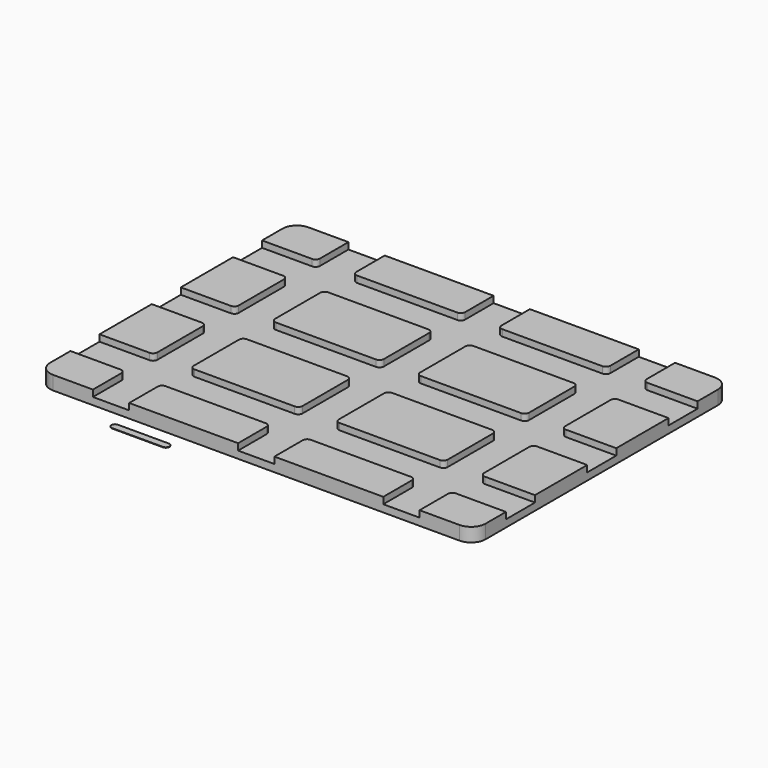
from build123d import *

# Parameters (mm, degrees)
F1_DEPTH = 5
F2_DEPTH = 9.5
F0_W     = 35
F0_H     = 5
F3_DEPTH = 0.3


with BuildPart() as f1:
    # F0 (on Top) → F1 (new body)
    with BuildSketch(Plane.XY):
        with BuildLine():
            Line((-150, 100), (-150, 82.5))
            Line((-150, 82.5), (-115.5, 82.5))
            ThreePointArc((-115.5, 82.5), (-113.37868, 83.37868), (-112.5, 85.5))
            Line((-112.5, 85.5), (-112.5, 110))
            Line((-112.5, 110), (-140, 110))
            ThreePointArc((-140, 110), (-147.071068, 107.071068), (-150, 100))
        make_face()
        with BuildLine():
            Line((87.5, -110), (112.5, -110))
            Line((112.5, -110), (112.5, -85.5))
            ThreePointArc((112.5, -85.5), (113.37868, -83.37868), (115.5, -82.5))
            Line((115.5, -82.5), (150, -82.5))
            Line((150, -82.5), (150, -57.5))
            Line((150, -57.5), (115.5, -57.5))
            ThreePointArc((115.5, -57.5), (113.37868, -56.62132), (112.5, -54.5))
            Line((112.5, -54.5), (112.5, -15.5))
            ThreePointArc((112.5, -15.5), (113.37868, -13.37868), (115.5, -12.5))
            Line((115.5, -12.5), (150, -12.5))
            Line((150, -12.5), (150, 12.5))
            Line((150, 12.5), (115.5, 12.5))
            ThreePointArc((115.5, 12.5), (113.37868, 13.37868), (112.5, 15.5))
            Line((112.5, 15.5), (112.5, 54.5))
            ThreePointArc((112.5, 54.5), (113.37868, 56.62132), (115.5, 57.5))
            Line((115.5, 57.5), (150, 57.5))
            Line((150, 57.5), (150, 82.5))
            Line((150, 82.5), (115.5, 82.5))
            ThreePointArc((115.5, 82.5), (113.37868, 83.37868), (112.5, 85.5))
            Line((112.5, 85.5), (112.5, 110))
            Line((112.5, 110), (87.5, 110))
            Line((87.5, 110), (87.5, 85.5))
            ThreePointArc((87.5, 85.5), (86.62132, 83.37868), (84.5, 82.5))
            Line((84.5, 82.5), (15.5, 82.5))
            ThreePointArc((15.5, 82.5), (13.37868, 83.37868), (12.5, 85.5))
            Line((12.5, 85.5), (12.5, 110))
            Line((12.5, 110), (-12.5, 110))
            Line((-12.5, 110), (-12.5, 85.5))
            ThreePointArc((-12.5, 85.5), (-13.37868, 83.37868), (-15.5, 82.5))
            Line((-15.5, 82.5), (-84.5, 82.5))
            ThreePointArc((-84.5, 82.5), (-86.62132, 83.37868), (-87.5, 85.5))
            Line((-87.5, 85.5), (-87.5, 110))
            Line((-87.5, 110), (-112.5, 110))
            Line((-112.5, 110), (-112.5, 85.5))
            ThreePointArc((-112.5, 85.5), (-113.37868, 83.37868), (-115.5, 82.5))
            Line((-115.5, 82.5), (-150, 82.5))
            Line((-150, 82.5), (-150, 57.5))
            Line((-150, 57.5), (-115.5, 57.5))
            ThreePointArc((-115.5, 57.5), (-113.37868, 56.62132), (-112.5, 54.5))
            Line((-112.5, 54.5), (-112.5, 15.5))
            ThreePointArc((-112.5, 15.5), (-113.37868, 13.37868), (-115.5, 12.5))
            Line((-115.5, 12.5), (-150, 12.5))
            Line((-150, 12.5), (-150, -12.5))
            Line((-150, -12.5), (-115.5, -12.5))
            ThreePointArc((-115.5, -12.5), (-113.37868, -13.37868), (-112.5, -15.5))
            Line((-112.5, -15.5), (-112.5, -54.5))
            ThreePointArc((-112.5, -54.5), (-113.37868, -56.62132), (-115.5, -57.5))
            Line((-115.5, -57.5), (-150, -57.5))
            Line((-150, -57.5), (-150, -82.5))
            Line((-150, -82.5), (-115.5, -82.5))
            ThreePointArc((-115.5, -82.5), (-113.37868, -83.37868), (-112.5, -85.5))
            Line((-112.5, -85.5), (-112.5, -110))
            Line((-112.5, -110), (-87.5, -110))
            Line((-87.5, -110), (-87.5, -85.5))
            ThreePointArc((-87.5, -85.5), (-86.62132, -83.37868), (-84.5, -82.5))
            Line((-84.5, -82.5), (-15.5, -82.5))
            ThreePointArc((-15.5, -82.5), (-13.37868, -83.37868), (-12.5, -85.5))
            Line((-12.5, -85.5), (-12.5, -110))
            Line((-12.5, -110), (12.5, -110))
            Line((12.5, -110), (12.5, -85.5))
            ThreePointArc((12.5, -85.5), (13.37868, -83.37868), (15.5, -82.5))
            Line((15.5, -82.5), (84.5, -82.5))
            ThreePointArc((84.5, -82.5), (86.62132, -83.37868), (87.5, -85.5))
            Line((87.5, -85.5), (87.5, -110))
        make_face()
        with BuildLine():
            ThreePointArc((-87.5, -15.5), (-86.62132, -13.37868), (-84.5, -12.5))
            Line((-84.5, -12.5), (-15.5, -12.5))
            ThreePointArc((-15.5, -12.5), (-13.37868, -13.37868), (-12.5, -15.5))
            Line((-12.5, -15.5), (-12.5, -54.5))
            ThreePointArc((-12.5, -54.5), (-13.37868, -56.62132), (-15.5, -57.5))
            Line((-15.5, -57.5), (-84.5, -57.5))
            ThreePointArc((-84.5, -57.5), (-86.62132, -56.62132), (-87.5, -54.5))
            Line((-87.5, -54.5), (-87.5, -15.5))
        make_face(mode=Mode.SUBTRACT)
        with BuildLine():
            Line((12.5, -54.5), (12.5, -15.5))
            ThreePointArc((12.5, -15.5), (13.37868, -13.37868), (15.5, -12.5))
            Line((15.5, -12.5), (84.5, -12.5))
            ThreePointArc((84.5, -12.5), (86.62132, -13.37868), (87.5, -15.5))
            Line((87.5, -15.5), (87.5, -54.5))
            ThreePointArc((87.5, -54.5), (86.62132, -56.62132), (84.5, -57.5))
            Line((84.5, -57.5), (15.5, -57.5))
            ThreePointArc((15.5, -57.5), (13.37868, -56.62132), (12.5, -54.5))
        make_face(mode=Mode.SUBTRACT)
        with BuildLine():
            ThreePointArc((-87.5, 54.5), (-86.62132, 56.62132), (-84.5, 57.5))
            Line((-84.5, 57.5), (-15.5, 57.5))
            ThreePointArc((-15.5, 57.5), (-13.37868, 56.62132), (-12.5, 54.5))
            Line((-12.5, 54.5), (-12.5, 15.5))
            ThreePointArc((-12.5, 15.5), (-13.37868, 13.37868), (-15.5, 12.5))
            Line((-15.5, 12.5), (-84.5, 12.5))
            ThreePointArc((-84.5, 12.5), (-86.62132, 13.37868), (-87.5, 15.5))
            Line((-87.5, 15.5), (-87.5, 54.5))
        make_face(mode=Mode.SUBTRACT)
        with BuildLine():
            Line((12.5, 15.5), (12.5, 54.5))
            ThreePointArc((12.5, 54.5), (13.37868, 56.62132), (15.5, 57.5))
            Line((15.5, 57.5), (84.5, 57.5))
            ThreePointArc((84.5, 57.5), (86.62132, 56.62132), (87.5, 54.5))
            Line((87.5, 54.5), (87.5, 15.5))
            ThreePointArc((87.5, 15.5), (86.62132, 13.37868), (84.5, 12.5))
            Line((84.5, 12.5), (15.5, 12.5))
            ThreePointArc((15.5, 12.5), (13.37868, 13.37868), (12.5, 15.5))
        make_face(mode=Mode.SUBTRACT)
        with BuildLine():
            Line((-12.5, 85.5), (-12.5, 110))
            Line((-12.5, 110), (-87.5, 110))
            Line((-87.5, 110), (-87.5, 85.5))
            ThreePointArc((-87.5, 85.5), (-86.62132, 83.37868), (-84.5, 82.5))
            Line((-84.5, 82.5), (-15.5, 82.5))
            ThreePointArc((-15.5, 82.5), (-13.37868, 83.37868), (-12.5, 85.5))
        make_face()
        with BuildLine():
            Line((87.5, 85.5), (87.5, 110))
            Line((87.5, 110), (12.5, 110))
            Line((12.5, 110), (12.5, 85.5))
            ThreePointArc((12.5, 85.5), (13.37868, 83.37868), (15.5, 82.5))
            Line((15.5, 82.5), (84.5, 82.5))
            ThreePointArc((84.5, 82.5), (86.62132, 83.37868), (87.5, 85.5))
        make_face()
        with BuildLine():
            Line((115.5, 82.5), (150, 82.5))
            Line((150, 82.5), (150, 100))
            ThreePointArc((150, 100), (147.071068, 107.071068), (140, 110))
            Line((140, 110), (112.5, 110))
            Line((112.5, 110), (112.5, 85.5))
            ThreePointArc((112.5, 85.5), (113.37868, 83.37868), (115.5, 82.5))
        make_face()
        with BuildLine():
            Line((115.5, 12.5), (150, 12.5))
            Line((150, 12.5), (150, 57.5))
            Line((150, 57.5), (115.5, 57.5))
            ThreePointArc((115.5, 57.5), (113.37868, 56.62132), (112.5, 54.5))
            Line((112.5, 54.5), (112.5, 15.5))
            ThreePointArc((112.5, 15.5), (113.37868, 13.37868), (115.5, 12.5))
        make_face()
        with BuildLine():
            ThreePointArc((15.5, 57.5), (13.37868, 56.62132), (12.5, 54.5))
            Line((12.5, 54.5), (12.5, 15.5))
            ThreePointArc((12.5, 15.5), (13.37868, 13.37868), (15.5, 12.5))
            Line((15.5, 12.5), (84.5, 12.5))
            ThreePointArc((84.5, 12.5), (86.62132, 13.37868), (87.5, 15.5))
            Line((87.5, 15.5), (87.5, 54.5))
            ThreePointArc((87.5, 54.5), (86.62132, 56.62132), (84.5, 57.5))
            Line((84.5, 57.5), (15.5, 57.5))
        make_face()
        with BuildLine():
            Line((-15.5, 57.5), (-84.5, 57.5))
            ThreePointArc((-84.5, 57.5), (-86.62132, 56.62132), (-87.5, 54.5))
            Line((-87.5, 54.5), (-87.5, 15.5))
            ThreePointArc((-87.5, 15.5), (-86.62132, 13.37868), (-84.5, 12.5))
            Line((-84.5, 12.5), (-15.5, 12.5))
            ThreePointArc((-15.5, 12.5), (-13.37868, 13.37868), (-12.5, 15.5))
            Line((-12.5, 15.5), (-12.5, 54.5))
            ThreePointArc((-12.5, 54.5), (-13.37868, 56.62132), (-15.5, 57.5))
        make_face()
        with BuildLine():
            Line((-150, 57.5), (-150, 12.5))
            Line((-150, 12.5), (-115.5, 12.5))
            ThreePointArc((-115.5, 12.5), (-113.37868, 13.37868), (-112.5, 15.5))
            Line((-112.5, 15.5), (-112.5, 54.5))
            ThreePointArc((-112.5, 54.5), (-113.37868, 56.62132), (-115.5, 57.5))
            Line((-115.5, 57.5), (-150, 57.5))
        make_face()
        with BuildLine():
            Line((-150, -12.5), (-150, -57.5))
            Line((-150, -57.5), (-115.5, -57.5))
            ThreePointArc((-115.5, -57.5), (-113.37868, -56.62132), (-112.5, -54.5))
            Line((-112.5, -54.5), (-112.5, -15.5))
            ThreePointArc((-112.5, -15.5), (-113.37868, -13.37868), (-115.5, -12.5))
            Line((-115.5, -12.5), (-150, -12.5))
        make_face()
        with BuildLine():
            Line((-15.5, -12.5), (-84.5, -12.5))
            ThreePointArc((-84.5, -12.5), (-86.62132, -13.37868), (-87.5, -15.5))
            Line((-87.5, -15.5), (-87.5, -54.5))
            ThreePointArc((-87.5, -54.5), (-86.62132, -56.62132), (-84.5, -57.5))
            Line((-84.5, -57.5), (-15.5, -57.5))
            ThreePointArc((-15.5, -57.5), (-13.37868, -56.62132), (-12.5, -54.5))
            Line((-12.5, -54.5), (-12.5, -15.5))
            ThreePointArc((-12.5, -15.5), (-13.37868, -13.37868), (-15.5, -12.5))
        make_face()
        with BuildLine():
            ThreePointArc((15.5, -12.5), (13.37868, -13.37868), (12.5, -15.5))
            Line((12.5, -15.5), (12.5, -54.5))
            ThreePointArc((12.5, -54.5), (13.37868, -56.62132), (15.5, -57.5))
            Line((15.5, -57.5), (84.5, -57.5))
            ThreePointArc((84.5, -57.5), (86.62132, -56.62132), (87.5, -54.5))
            Line((87.5, -54.5), (87.5, -15.5))
            ThreePointArc((87.5, -15.5), (86.62132, -13.37868), (84.5, -12.5))
            Line((84.5, -12.5), (15.5, -12.5))
        make_face()
        with BuildLine():
            Line((115.5, -57.5), (150, -57.5))
            Line((150, -57.5), (150, -12.5))
            Line((150, -12.5), (115.5, -12.5))
            ThreePointArc((115.5, -12.5), (113.37868, -13.37868), (112.5, -15.5))
            Line((112.5, -15.5), (112.5, -54.5))
            ThreePointArc((112.5, -54.5), (113.37868, -56.62132), (115.5, -57.5))
        make_face()
        with BuildLine():
            Line((112.5, -110), (140, -110))
            ThreePointArc((140, -110), (147.071068, -107.071068), (150, -100))
            Line((150, -100), (150, -82.5))
            Line((150, -82.5), (115.5, -82.5))
            ThreePointArc((115.5, -82.5), (113.37868, -83.37868), (112.5, -85.5))
            Line((112.5, -85.5), (112.5, -110))
        make_face()
        with BuildLine():
            Line((12.5, -110), (87.5, -110))
            Line((87.5, -110), (87.5, -85.5))
            ThreePointArc((87.5, -85.5), (86.62132, -83.37868), (84.5, -82.5))
            Line((84.5, -82.5), (15.5, -82.5))
            ThreePointArc((15.5, -82.5), (13.37868, -83.37868), (12.5, -85.5))
            Line((12.5, -85.5), (12.5, -110))
        make_face()
        with BuildLine():
            Line((-87.5, -110), (-12.5, -110))
            Line((-12.5, -110), (-12.5, -85.5))
            ThreePointArc((-12.5, -85.5), (-13.37868, -83.37868), (-15.5, -82.5))
            Line((-15.5, -82.5), (-84.5, -82.5))
            ThreePointArc((-84.5, -82.5), (-86.62132, -83.37868), (-87.5, -85.5))
            Line((-87.5, -85.5), (-87.5, -110))
        make_face()
        with BuildLine():
            Line((-140, -110), (-112.5, -110))
            Line((-112.5, -110), (-112.5, -85.5))
            ThreePointArc((-112.5, -85.5), (-113.37868, -83.37868), (-115.5, -82.5))
            Line((-115.5, -82.5), (-150, -82.5))
            Line((-150, -82.5), (-150, -100))
            ThreePointArc((-150, -100), (-147.071068, -107.071068), (-140, -110))
        make_face()
    extrude(amount=F1_DEPTH)

    # F0 (on Top) → F2 (join)
    with BuildSketch(Plane.XY):
        with BuildLine():
            Line((-150, 57.5), (-150, 12.5))
            Line((-150, 12.5), (-115.5, 12.5))
            ThreePointArc((-115.5, 12.5), (-113.37868, 13.37868), (-112.5, 15.5))
            Line((-112.5, 15.5), (-112.5, 54.5))
            ThreePointArc((-112.5, 54.5), (-113.37868, 56.62132), (-115.5, 57.5))
            Line((-115.5, 57.5), (-150, 57.5))
        make_face()
        with BuildLine():
            Line((-150, 100), (-150, 82.5))
            Line((-150, 82.5), (-115.5, 82.5))
            ThreePointArc((-115.5, 82.5), (-113.37868, 83.37868), (-112.5, 85.5))
            Line((-112.5, 85.5), (-112.5, 110))
            Line((-112.5, 110), (-140, 110))
            ThreePointArc((-140, 110), (-147.071068, 107.071068), (-150, 100))
        make_face()
        with BuildLine():
            Line((-12.5, 85.5), (-12.5, 110))
            Line((-12.5, 110), (-87.5, 110))
            Line((-87.5, 110), (-87.5, 85.5))
            ThreePointArc((-87.5, 85.5), (-86.62132, 83.37868), (-84.5, 82.5))
            Line((-84.5, 82.5), (-15.5, 82.5))
            ThreePointArc((-15.5, 82.5), (-13.37868, 83.37868), (-12.5, 85.5))
        make_face()
        with BuildLine():
            Line((-15.5, 57.5), (-84.5, 57.5))
            ThreePointArc((-84.5, 57.5), (-86.62132, 56.62132), (-87.5, 54.5))
            Line((-87.5, 54.5), (-87.5, 15.5))
            ThreePointArc((-87.5, 15.5), (-86.62132, 13.37868), (-84.5, 12.5))
            Line((-84.5, 12.5), (-15.5, 12.5))
            ThreePointArc((-15.5, 12.5), (-13.37868, 13.37868), (-12.5, 15.5))
            Line((-12.5, 15.5), (-12.5, 54.5))
            ThreePointArc((-12.5, 54.5), (-13.37868, 56.62132), (-15.5, 57.5))
        make_face()
        with BuildLine():
            Line((-15.5, -12.5), (-84.5, -12.5))
            ThreePointArc((-84.5, -12.5), (-86.62132, -13.37868), (-87.5, -15.5))
            Line((-87.5, -15.5), (-87.5, -54.5))
            ThreePointArc((-87.5, -54.5), (-86.62132, -56.62132), (-84.5, -57.5))
            Line((-84.5, -57.5), (-15.5, -57.5))
            ThreePointArc((-15.5, -57.5), (-13.37868, -56.62132), (-12.5, -54.5))
            Line((-12.5, -54.5), (-12.5, -15.5))
            ThreePointArc((-12.5, -15.5), (-13.37868, -13.37868), (-15.5, -12.5))
        make_face()
        with BuildLine():
            Line((-150, -12.5), (-150, -57.5))
            Line((-150, -57.5), (-115.5, -57.5))
            ThreePointArc((-115.5, -57.5), (-113.37868, -56.62132), (-112.5, -54.5))
            Line((-112.5, -54.5), (-112.5, -15.5))
            ThreePointArc((-112.5, -15.5), (-113.37868, -13.37868), (-115.5, -12.5))
            Line((-115.5, -12.5), (-150, -12.5))
        make_face()
        with BuildLine():
            Line((-140, -110), (-112.5, -110))
            Line((-112.5, -110), (-112.5, -85.5))
            ThreePointArc((-112.5, -85.5), (-113.37868, -83.37868), (-115.5, -82.5))
            Line((-115.5, -82.5), (-150, -82.5))
            Line((-150, -82.5), (-150, -100))
            ThreePointArc((-150, -100), (-147.071068, -107.071068), (-140, -110))
        make_face()
        with BuildLine():
            Line((-87.5, -110), (-12.5, -110))
            Line((-12.5, -110), (-12.5, -85.5))
            ThreePointArc((-12.5, -85.5), (-13.37868, -83.37868), (-15.5, -82.5))
            Line((-15.5, -82.5), (-84.5, -82.5))
            ThreePointArc((-84.5, -82.5), (-86.62132, -83.37868), (-87.5, -85.5))
            Line((-87.5, -85.5), (-87.5, -110))
        make_face()
        with BuildLine():
            Line((12.5, -110), (87.5, -110))
            Line((87.5, -110), (87.5, -85.5))
            ThreePointArc((87.5, -85.5), (86.62132, -83.37868), (84.5, -82.5))
            Line((84.5, -82.5), (15.5, -82.5))
            ThreePointArc((15.5, -82.5), (13.37868, -83.37868), (12.5, -85.5))
            Line((12.5, -85.5), (12.5, -110))
        make_face()
        with BuildLine():
            ThreePointArc((15.5, -12.5), (13.37868, -13.37868), (12.5, -15.5))
            Line((12.5, -15.5), (12.5, -54.5))
            ThreePointArc((12.5, -54.5), (13.37868, -56.62132), (15.5, -57.5))
            Line((15.5, -57.5), (84.5, -57.5))
            ThreePointArc((84.5, -57.5), (86.62132, -56.62132), (87.5, -54.5))
            Line((87.5, -54.5), (87.5, -15.5))
            ThreePointArc((87.5, -15.5), (86.62132, -13.37868), (84.5, -12.5))
            Line((84.5, -12.5), (15.5, -12.5))
        make_face()
        with BuildLine():
            ThreePointArc((15.5, 57.5), (13.37868, 56.62132), (12.5, 54.5))
            Line((12.5, 54.5), (12.5, 15.5))
            ThreePointArc((12.5, 15.5), (13.37868, 13.37868), (15.5, 12.5))
            Line((15.5, 12.5), (84.5, 12.5))
            ThreePointArc((84.5, 12.5), (86.62132, 13.37868), (87.5, 15.5))
            Line((87.5, 15.5), (87.5, 54.5))
            ThreePointArc((87.5, 54.5), (86.62132, 56.62132), (84.5, 57.5))
            Line((84.5, 57.5), (15.5, 57.5))
        make_face()
        with BuildLine():
            Line((87.5, 85.5), (87.5, 110))
            Line((87.5, 110), (12.5, 110))
            Line((12.5, 110), (12.5, 85.5))
            ThreePointArc((12.5, 85.5), (13.37868, 83.37868), (15.5, 82.5))
            Line((15.5, 82.5), (84.5, 82.5))
            ThreePointArc((84.5, 82.5), (86.62132, 83.37868), (87.5, 85.5))
        make_face()
        with BuildLine():
            Line((115.5, 82.5), (150, 82.5))
            Line((150, 82.5), (150, 100))
            ThreePointArc((150, 100), (147.071068, 107.071068), (140, 110))
            Line((140, 110), (112.5, 110))
            Line((112.5, 110), (112.5, 85.5))
            ThreePointArc((112.5, 85.5), (113.37868, 83.37868), (115.5, 82.5))
        make_face()
        with BuildLine():
            Line((115.5, 12.5), (150, 12.5))
            Line((150, 12.5), (150, 57.5))
            Line((150, 57.5), (115.5, 57.5))
            ThreePointArc((115.5, 57.5), (113.37868, 56.62132), (112.5, 54.5))
            Line((112.5, 54.5), (112.5, 15.5))
            ThreePointArc((112.5, 15.5), (113.37868, 13.37868), (115.5, 12.5))
        make_face()
        with BuildLine():
            Line((115.5, -57.5), (150, -57.5))
            Line((150, -57.5), (150, -12.5))
            Line((150, -12.5), (115.5, -12.5))
            ThreePointArc((115.5, -12.5), (113.37868, -13.37868), (112.5, -15.5))
            Line((112.5, -15.5), (112.5, -54.5))
            ThreePointArc((112.5, -54.5), (113.37868, -56.62132), (115.5, -57.5))
        make_face()
        with BuildLine():
            Line((112.5, -110), (140, -110))
            ThreePointArc((140, -110), (147.071068, -107.071068), (150, -100))
            Line((150, -100), (150, -82.5))
            Line((150, -82.5), (115.5, -82.5))
            ThreePointArc((115.5, -82.5), (113.37868, -83.37868), (112.5, -85.5))
            Line((112.5, -85.5), (112.5, -110))
        make_face()
    extrude(amount=F2_DEPTH)


with BuildPart() as f3:
    # F0 (on Top) → F3 (new body)
    with BuildSketch(Plane.XY):
        with Locations((-70, -122.271573)):
            Rectangle(F0_W, F0_H)
        with BuildLine():
            ThreePointArc((-52.5, -124.771573), (-50, -122.271573), (-52.5, -119.771573))
            Line((-52.5, -119.771573), (-52.5, -124.771573))
        make_face()
        with BuildLine():
            Line((-87.5, -124.771573), (-87.5, -119.771573))
            ThreePointArc((-87.5, -119.771573), (-90, -122.271573), (-87.5, -124.771573))
        make_face()
    extrude(amount=F3_DEPTH)


solid = Compound([f1.part, f3.part])
